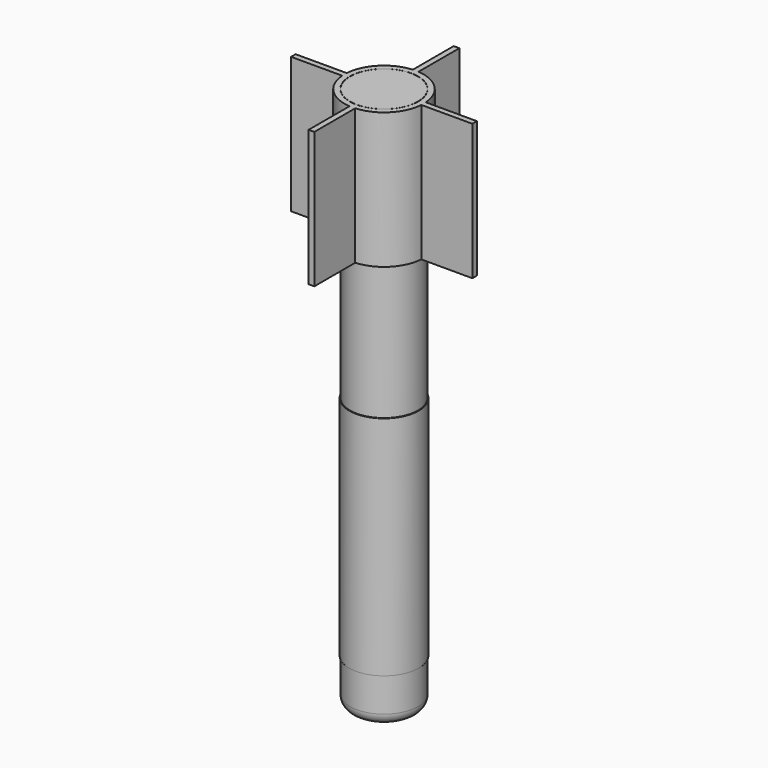
from build123d import *

# Parameters (mm, degrees)
F0_R          = 19.05
F1_DEPTH      = 152.4
F1_DEPTH_BACK = 152.4
F3_START      = 76.2
F3_DEPTH      = 76.2
F4_R          = 6.35
F5_R          = 19.4437
F5_R_2        = 19.05
F6_DEPTH      = 127


with BuildPart() as f1:
    # F0 (on Top) → F1 (new body, two sides)
    with BuildSketch(Plane.XY) as f1_sk:
        Circle(F0_R)
    extrude(amount=F1_DEPTH)
    extrude(f1_sk.sketch, amount=-F1_DEPTH_BACK)

    # F4
    f4_edges = [f1.edges().sort_by_distance(p)[0] for p in [
        (-19.05, 0, -152.4),
    ]]
    fillet(f4_edges, radius=F4_R)


with BuildPart() as f3:
    # F2 (on Top) → F3 (new body)
    with BuildSketch(Plane.XY.offset(F3_START)):
        with BuildLine():
            ThreePointArc((22.1682310695, -1.5875), (22.2108032331, -0.7942573515), (22.225, 0))
            ThreePointArc((22.225, 0), (22.2108032331, 0.7942573515), (22.1682310695, 1.5875))
            Line((22.1682310695, 1.5875), (19.05, 1.5875))
            ThreePointArc((19.05, 1.5875), (19.0995164115, 0.7944363403), (19.1160313938, 0))
            ThreePointArc((19.1160313938, 0), (19.0995164115, -0.7944363403), (19.05, -1.5875))
            Line((19.05, -1.5875), (22.1682310695, -1.5875))
        make_face()
        with BuildLine():
            ThreePointArc((22.1682310695, 1.5875), (22.2108032331, 0.7942573515), (22.225, 0))
            ThreePointArc((22.225, 0), (22.2108032331, -0.7942573515), (22.1682310695, -1.5875))
            Line((22.1682310695, -1.5875), (50.8, -1.5875))
            Line((50.8, -1.5875), (50.8, 1.5875))
            Line((50.8, 1.5875), (22.1682310695, 1.5875))
        make_face()
        with BuildLine():
            Line((19.05, 1.5875), (22.1682310695, 1.5875))
            ThreePointArc((22.1682310695, 1.5875), (15.7154482119, 15.7154482119), (1.5875, 22.1682310695))
            Line((1.5875, 22.1682310695), (1.5875, 19.05))
            ThreePointArc((1.5875, 19.05), (13.517075428, 13.517075428), (19.05, 1.5875))
        make_face()
        with BuildLine():
            ThreePointArc((1.5875, -22.1682310695), (15.7154482119, -15.7154482119), (22.1682310695, -1.5875))
            Line((22.1682310695, -1.5875), (19.05, -1.5875))
            ThreePointArc((19.05, -1.5875), (13.517075428, -13.517075428), (1.5875, -19.05))
            Line((1.5875, -19.05), (1.5875, -22.1682310695))
        make_face()
        with BuildLine():
            Line((1.5875, 19.05), (1.5875, 22.1682310695))
            ThreePointArc((1.5875, 22.1682310695), (0, 22.225), (-1.5875, 22.1682310695))
            Line((-1.5875, 22.1682310695), (-1.5875, 19.05))
            ThreePointArc((-1.5875, 19.05), (0, 19.1160313938), (1.5875, 19.05))
        make_face()
        with BuildLine():
            ThreePointArc((-1.5875, 22.1682310695), (0, 22.225), (1.5875, 22.1682310695))
            Line((1.5875, 22.1682310695), (1.5875, 50.8))
            Line((1.5875, 50.8), (-1.5875, 50.8))
            Line((-1.5875, 50.8), (-1.5875, 22.1682310695))
        make_face()
        with BuildLine():
            Line((1.5875, -50.8), (1.5875, -22.1682310695))
            ThreePointArc((1.5875, -22.1682310695), (0, -22.225), (-1.5875, -22.1682310695))
            Line((-1.5875, -22.1682310695), (-1.5875, -50.8))
            Line((-1.5875, -50.8), (1.5875, -50.8))
        make_face()
        with BuildLine():
            ThreePointArc((-1.5875, -22.1682310695), (0, -22.225), (1.5875, -22.1682310695))
            Line((1.5875, -22.1682310695), (1.5875, -19.05))
            ThreePointArc((1.5875, -19.05), (0, -19.1160313938), (-1.5875, -19.05))
            Line((-1.5875, -19.05), (-1.5875, -22.1682310695))
        make_face()
        with BuildLine():
            Line((-1.5875, 19.05), (-1.5875, 22.1682310695))
            ThreePointArc((-1.5875, 22.1682310695), (-15.7154482119, 15.7154482119), (-22.1682310695, 1.5875))
            Line((-22.1682310695, 1.5875), (-19.05, 1.5875))
            ThreePointArc((-19.05, 1.5875), (-13.517075428, 13.517075428), (-1.5875, 19.05))
        make_face()
        with BuildLine():
            ThreePointArc((-22.1682310695, -1.5875), (-15.7154482119, -15.7154482119), (-1.5875, -22.1682310695))
            Line((-1.5875, -22.1682310695), (-1.5875, -19.05))
            ThreePointArc((-1.5875, -19.05), (-13.517075428, -13.517075428), (-19.05, -1.5875))
            Line((-19.05, -1.5875), (-22.1682310695, -1.5875))
        make_face()
        with BuildLine():
            Line((-19.05, 1.5875), (-22.1682310695, 1.5875))
            ThreePointArc((-22.1682310695, 1.5875), (-22.225, 0), (-22.1682310695, -1.5875))
            Line((-22.1682310695, -1.5875), (-19.05, -1.5875))
            ThreePointArc((-19.05, -1.5875), (-19.1160313938, 0), (-19.05, 1.5875))
        make_face()
        with BuildLine():
            ThreePointArc((-22.1682310695, -1.5875), (-22.225, 0), (-22.1682310695, 1.5875))
            Line((-22.1682310695, 1.5875), (-50.8, 1.5875))
            Line((-50.8, 1.5875), (-50.8, -1.5875))
            Line((-50.8, -1.5875), (-22.1682310695, -1.5875))
        make_face()
    extrude(amount=F3_DEPTH)


with BuildPart() as f6:
    # F5 (on Top) → F6 (new body)
    with BuildSketch(Plane.XY):
        Circle(F5_R)
        Circle(F5_R_2, mode=Mode.SUBTRACT)
    extrude(amount=-F6_DEPTH)


solid = Compound([f1.part, f3.part, f6.part])
